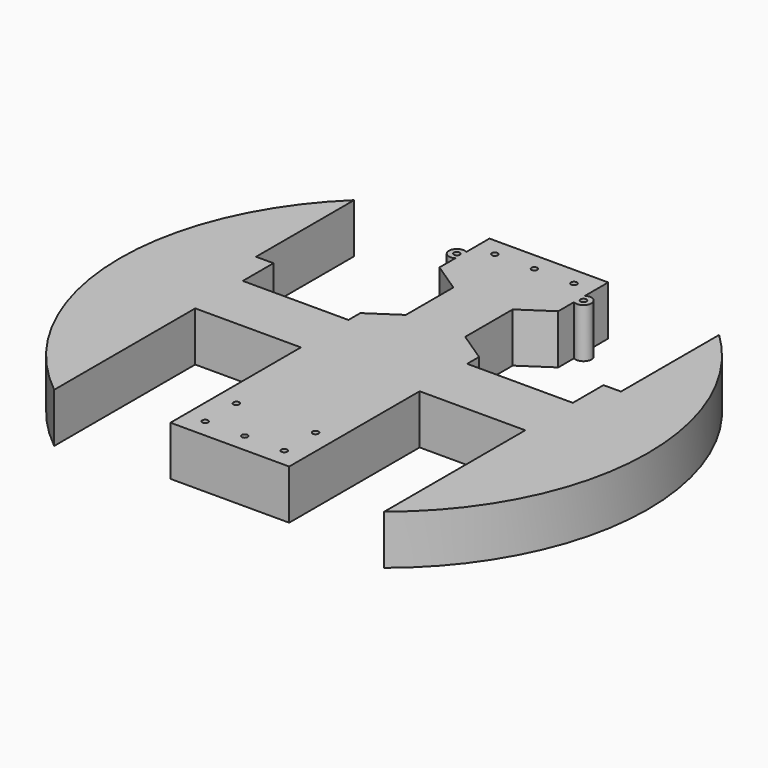
from build123d import *

# Parameters (mm, degrees)
F0_R     = 1.5
F1_DEPTH = 25


with BuildPart() as f1:
    # F0 (on Top) → F1 (new body)
    with BuildSketch(Plane.XY):
        with BuildLine():
            Line((-30, -15.022593), (-30, -97.416713))
            Line((-30, -97.416713), (30, -97.416713))
            Line((30, -97.416713), (30, -15.022593))
            Line((30, -15.022593), (83.395203, -15.022593))
            Line((83.395203, -15.022593), (83.395203, -104.113017))
            ThreePointArc((83.395203, -104.113017), (133.266556, -5.857075), (92.207557, 96.395263))
            Line((92.207557, 96.395263), (92.207557, 34.407277))
            Line((92.207557, 34.407277), (83.395203, 34.407277))
            Line((83.395203, 34.407277), (83.395203, 15.022593))
            Line((83.395203, 15.022593), (30, 15.022593))
            Line((30, 15.022593), (30, 22.535898))
            Line((30, 22.535898), (15, 32.535898))
            Line((15, 32.535898), (15, 62.535898))
            Line((15, 62.535898), (30, 72.535898))
            Line((30, 72.535898), (30, 82.535898))
            ThreePointArc((30, 82.535898), (36, 86), (30, 89.464102))
            Line((30, 89.464102), (30, 104.113017))
            Line((30, 104.113017), (-30, 104.113017))
            Line((-30, 104.113017), (-30, 89.464102))
            ThreePointArc((-30, 89.464102), (-36, 86), (-30, 82.535898))
            Line((-30, 82.535898), (-30, 72.535898))
            Line((-30, 72.535898), (-15, 62.535898))
            Line((-15, 62.535898), (-15, 32.535898))
            Line((-15, 32.535898), (-30, 22.535898))
            Line((-30, 22.535898), (-30, 15.022593))
            Line((-30, 15.022593), (-83.395203, 15.022593))
            Line((-83.395203, 15.022593), (-83.395203, 34.407277))
            Line((-83.395203, 34.407277), (-92.207557, 34.407277))
            Line((-92.207557, 34.407277), (-92.207557, 96.395263))
            ThreePointArc((-92.207557, 96.395263), (-133.266556, -5.857075), (-83.395203, -104.113017))
            Line((-83.395203, -104.113017), (-83.395203, -15.022593))
            Line((-83.395203, -15.022593), (-30, -15.022593))
        make_face()
        with Locations((-20, -88)):
            Circle(F0_R, mode=Mode.SUBTRACT)
        with Locations((-20, -68.25)):
            Circle(F0_R, mode=Mode.SUBTRACT)
        with Locations((0, -88)):
            Circle(F0_R, mode=Mode.SUBTRACT)
        with Locations((20, -88)):
            Circle(F0_R, mode=Mode.SUBTRACT)
        with Locations((20, -68.25)):
            Circle(F0_R, mode=Mode.SUBTRACT)
        with Locations((-32, 86)):
            Circle(F0_R, mode=Mode.SUBTRACT)
        with Locations((-20, 95)):
            Circle(F0_R, mode=Mode.SUBTRACT)
        with Locations((32, 86)):
            Circle(F0_R, mode=Mode.SUBTRACT)
        with Locations((0, 95)):
            Circle(F0_R, mode=Mode.SUBTRACT)
        with Locations((20, 95)):
            Circle(F0_R, mode=Mode.SUBTRACT)
    extrude(amount=F1_DEPTH)


solid = f1.part
